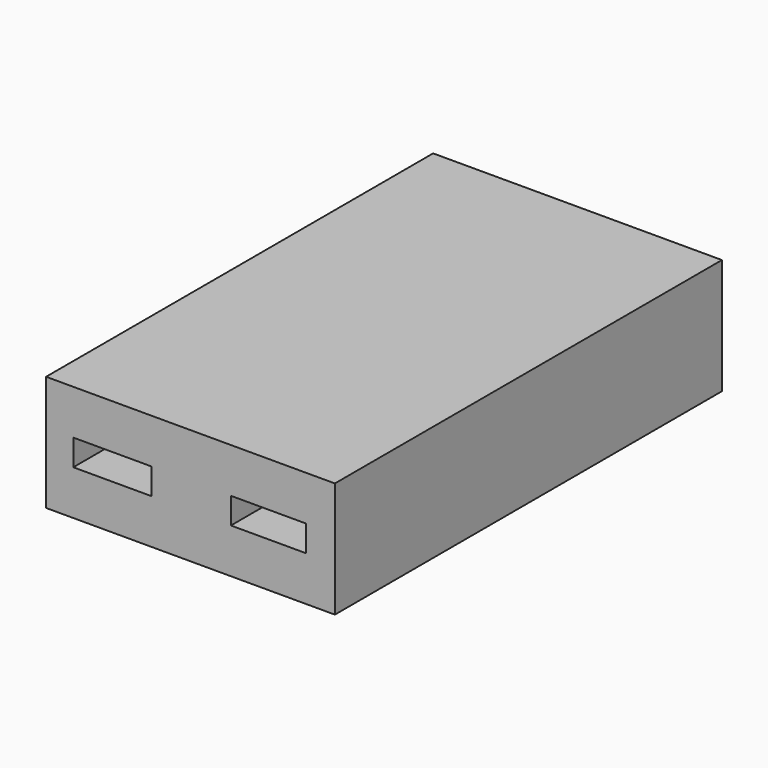
from build123d import *

# Parameters (mm, degrees)
F0_W     = 25.4
F0_H     = 10.16
F0_W_2   = 6.9
F0_H_2   = 2.3
F0_W_3   = 6.604
F1_DEPTH = 39.8526
F2_DEPTH = 2.7


with BuildPart() as f1:
    # F0 (on Front) → F1 (new body)
    with BuildSketch(Plane.XZ):
        Rectangle(F0_W, F0_H)
        with Locations((-6.858, 0)):
            Rectangle(F0_W_2, F0_H_2, mode=Mode.SUBTRACT)
        with Locations((6.858, 0)):
            Rectangle(F0_W_3, F0_H_2, mode=Mode.SUBTRACT)
    extrude(amount=F1_DEPTH)

    # F0 (on Front) → F2 (join)
    with BuildSketch(Plane.XZ):
        Rectangle(F0_W, F0_H)
        with Locations((-6.858, 0)):
            Rectangle(F0_W_2, F0_H_2, mode=Mode.SUBTRACT)
        with Locations((6.858, 0)):
            Rectangle(F0_W_3, F0_H_2, mode=Mode.SUBTRACT)
        with Locations((-6.858, 0)):
            Rectangle(F0_W_2, F0_H_2)
        with Locations((6.858, 0)):
            Rectangle(F0_W_3, F0_H_2)
    extrude(amount=-F2_DEPTH)


solid = f1.part
